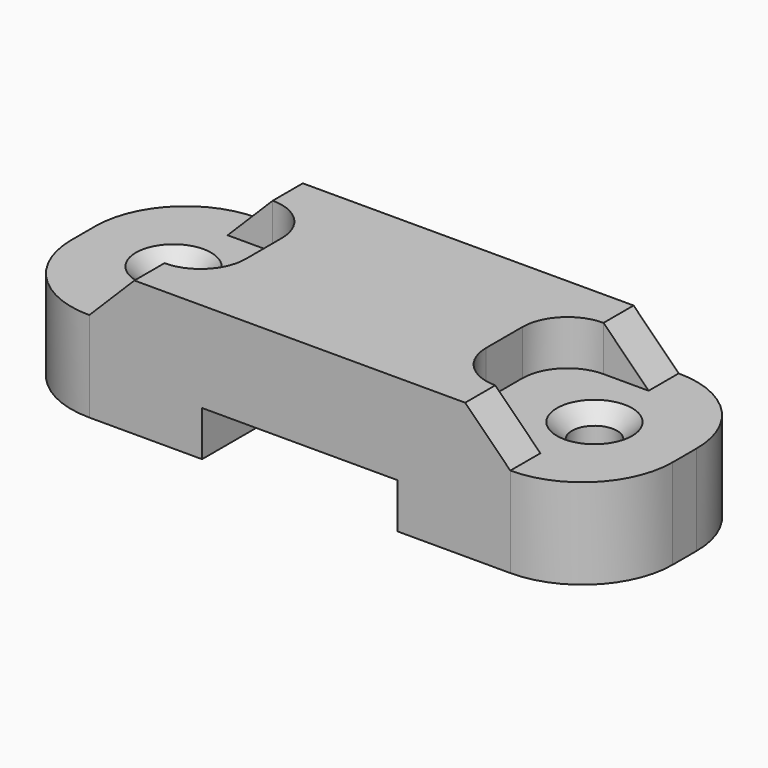
from build123d import *

# Parameters (mm, degrees)
PAD_DEPTH       = 14
SKETCH001_R     = 1.5
POCKET_DEPTH    = 91.604738
FILLET_R        = 6
PAD001_DEPTH    = 14
SKETCH003_W     = 12
SKETCH003_H     = 8.899188
POCKET001_DEPTH = 4.5
FILLET001_R     = 3
CHAMFER_SIZE    = 1


with BuildPart() as part:
    # Sketch → Pad (new body)
    with BuildSketch(Plane.XZ):
        Polygon((20, -3), (20, 3), (-20, 3), (-20, -3), (-6.5, -3), (-6.5, 0), (6.5, 0), (6.5, -3), align=None)
    extrude(amount=PAD_DEPTH)

    # Sketch001 (on DatumPlane) → Pocket (cut, through all)
    with BuildSketch(Plane(origin=(0, 0, 3), x_dir=(-1, 0, 0), z_dir=(0, 0, 1))):
        with Locations((14, 7)):
            Circle(SKETCH001_R)
    pocket = extrude(amount=-POCKET_DEPTH, mode=Mode.SUBTRACT)

    # Mirrored: Pocket across Sketch001 V_Axis
    add(pocket.mirror(Plane(origin=(0, 0, 3), x_dir=(0, 0, 1), z_dir=(-1, 0, 0))), mode=Mode.SUBTRACT)

    # Fillet
    fillet_edges = [part.edges().sort_by_distance(p)[0] for p in [
        (-20, -14, 0),
        (20, -14, 0),
        (20, 0, 0),
        (-20, 0, 0),
    ]]
    fillet(fillet_edges, radius=FILLET_R)

    # Sketch002 → Pad001 (join)
    with BuildSketch(Plane.XZ):
        Polygon((-14, 3), (-11, 6), (11, 6), (14, 3), align=None)
    extrude(amount=PAD001_DEPTH)

    # Sketch003 (on DatumPlane) → Pocket001 (cut, symmetric)
    with BuildSketch(Plane(origin=(0, -7, 0), x_dir=(1, 0, 0), z_dir=(0, 1, 0))):
        with Locations((14, -7.449594)):
            Rectangle(SKETCH003_W, SKETCH003_H)
    pocket001 = extrude(amount=POCKET001_DEPTH, both=True, mode=Mode.SUBTRACT)

    # Mirrored001: Pocket001 across Sketch003 V_Axis
    add(pocket001.mirror(Plane(origin=(0, -7, 0), x_dir=(0, 1, 0), z_dir=(1, 0, 0))), mode=Mode.SUBTRACT)

    # Fillet001
    fillet001_edges = [part.edges().sort_by_distance(p)[0] for p in [
        (-8, -11.5, 4.5),
        (8, -11.5, 4.5),
        (-8, -2.5, 4.5),
        (8, -2.5, 4.5),
    ]]
    fillet(fillet001_edges, radius=FILLET001_R)

    # Chamfer
    chamfer_edges = [part.edges().sort_by_distance(p)[0] for p in [
        (-15.06066, -5.93934, 3),
        (12.5, -7, 3),
    ]]
    chamfer(chamfer_edges, length=CHAMFER_SIZE)


solid = part.part
